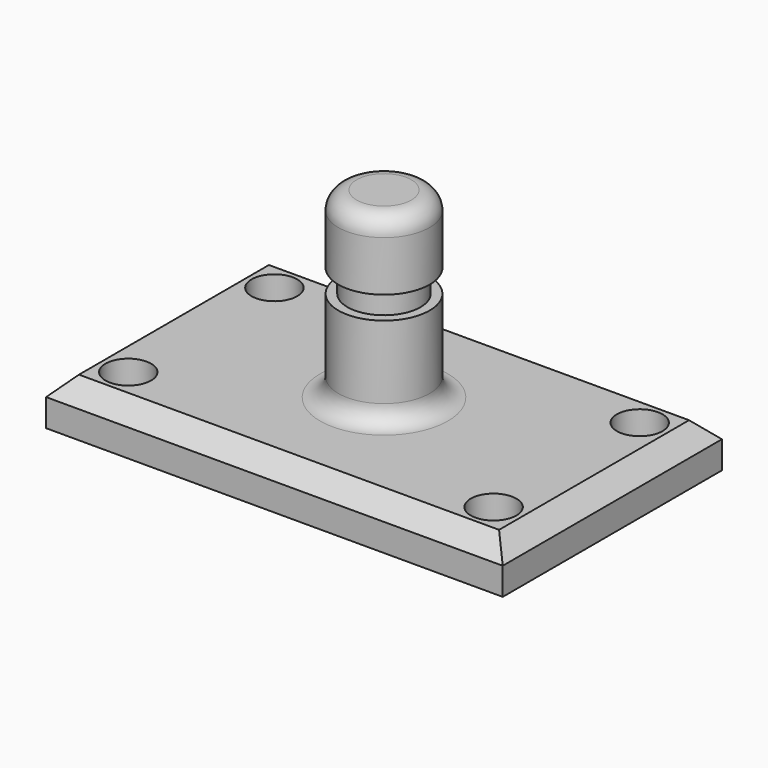
from build123d import *

# Parameters (mm, degrees)
F0_W     = 127
F0_H     = 76.2
F1_DEPTH = 12.7
F2_R     = 6.35
F3_DEPTH = 12.701
F4_W     = 12.7
F4_H     = 50.8
F6_W     = 9.855053
F6_H     = 6.35
F8_R     = 5.08
F9_SIZE  = 5.08


with BuildPart() as f1:
    # F0 (on Top) → F1 (new body)
    with BuildSketch(Plane.XY):
        Rectangle(F0_W, F0_H)
    extrude(amount=F1_DEPTH)

    # F2 (on face) → F3 (cut, through all)
    with BuildSketch(Plane.XY.offset(12.7)):
        with Locations((-50.8, 25.4)):
            Circle(F2_R)
        with Locations((50.8, 25.4)):
            Circle(F2_R)
        with Locations((-50.8, -25.4)):
            Circle(F2_R)
        with Locations((50.8, -25.4)):
            Circle(F2_R)
    extrude(amount=-F3_DEPTH, mode=Mode.SUBTRACT)

    # F4 (on Right) → F5 (revolve)
    with BuildSketch(Plane.YZ):
        with Locations((6.35, 38.1)):
            Rectangle(F4_W, F4_H)
    revolve(axis=Axis((0, 0, 38.1), (0, 0, 1)))

    # F6 (on Front) → F7 (revolve, cut)
    with BuildSketch(Plane.XZ):
        with Locations((15.087526, 41.275)):
            Rectangle(F6_W, F6_H)
    revolve(axis=Axis((0, 0, 12.7), (0, 0, 1)), mode=Mode.SUBTRACT)

    # F8
    f8_edges = [f1.edges().sort_by_distance(p)[0] for p in [
        (0, -12.7, 12.7),
        (0, -12.7, 63.5),
    ]]
    fillet(f8_edges, radius=F8_R)

    # F9
    f9_edges = [f1.edges().sort_by_distance(p)[0] for p in [
        (-63.5, 0, 12.7),
        (0, -38.1, 12.7),
        (63.5, 0, 12.7),
        (0, 38.1, 12.7),
    ]]
    chamfer(f9_edges, length=F9_SIZE)


solid = f1.part
